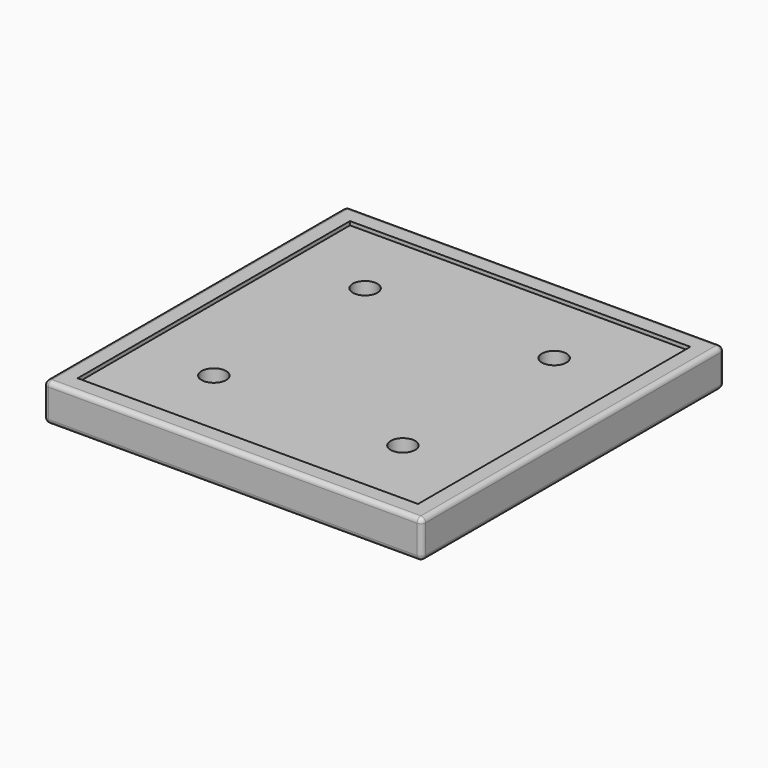
from build123d import *

# Parameters (mm, degrees)
F0_W           = 200
F0_H           = 200
F1_DEPTH       = 20
F2_R           = 2.5
F3_W           = 180
F3_H           = 180
F4_DEPTH       = 2
F6_D           = 8
F6_CBORE_D     = 13
F6_CBORE_DEPTH = 8


with BuildPart() as f1:
    # F0 (on Top) → F1 (new body)
    with BuildSketch(Plane.XY):
        Rectangle(F0_W, F0_H)
    extrude(amount=F1_DEPTH)

    # F2
    f2_edges = [f1.edges().sort_by_distance(p)[0] for p in [
        (0, 100, 20),
        (100, 0, 20),
        (100, 100, 10),
        (0, 100, 0),
        (100, 0, 0),
        (-100, 0, 0),
        (-100, 0, 20),
        (-100, 100, 10),
        (100, -100, 10),
        (0, -100, 20),
        (0, -100, 0),
        (-100, -100, 10),
    ]]
    fillet(f2_edges, radius=F2_R)

    # F3 (on face) → F4 (cut)
    with BuildSketch(Plane.XY.offset(20)):
        Rectangle(F3_W, F3_H)
    extrude(amount=-F4_DEPTH, mode=Mode.SUBTRACT)

    # F6 (through all)
    with Locations(Plane.XY.offset(18)):
        with Locations((-50, 50), (50, 50), (50, -50), (-50, -50)):
            CounterBoreHole(F6_D / 2, F6_CBORE_D / 2, F6_CBORE_DEPTH)


solid = f1.part
